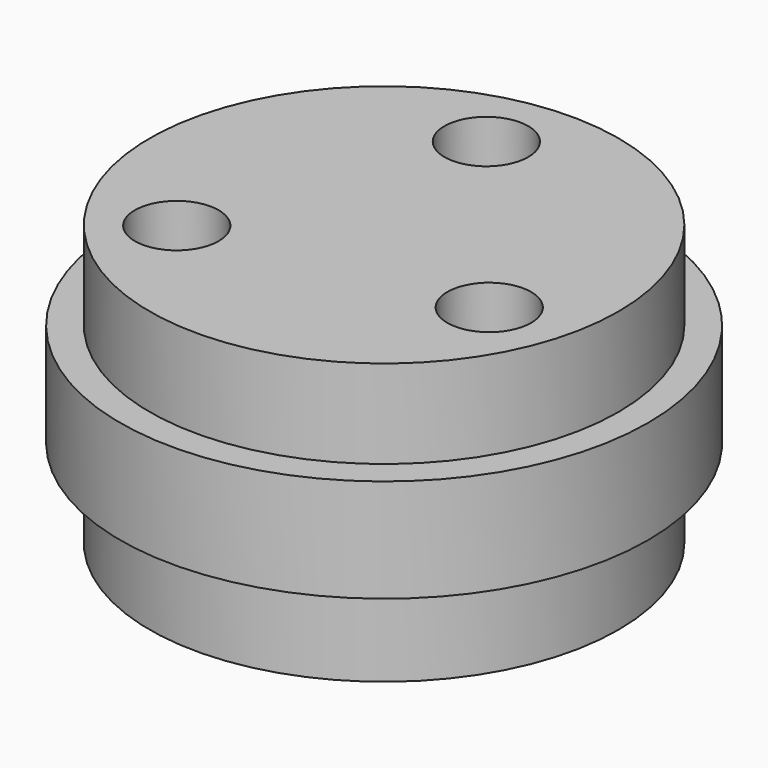
from build123d import *

# Parameters (mm, degrees)
F0_R     = 7.95
F1_DEPTH = 3
F2_R     = 8.95
F3_DEPTH = 3.5
F4_R     = 7.95
F5_DEPTH = 3
F6_R     = 1.4204913212
F7_DEPTH = 9.501
F8_R     = 6.9107531966
F8_R_2   = 3
F8_R_3   = 1.05
F9_DEPTH = 5


with BuildPart() as f1:
    # F0 (on Top) → F1 (new body)
    with BuildSketch(Plane.XY):
        Circle(F0_R)
    extrude(amount=F1_DEPTH)

    # F2 (on face) → F3 (join)
    with BuildSketch(Plane.XY.offset(3)):
        Circle(F2_R)
    extrude(amount=F3_DEPTH)

    # F4 (on face) → F5 (join)
    with BuildSketch(Plane.XY.offset(6.5)):
        Circle(F4_R)
    extrude(amount=F5_DEPTH)

    # F6 (on face) → F7 (cut, through all)
    with BuildSketch(Plane.XY.offset(9.5)):
        with Locations((-0.869839613, 5.4209182347)):
            Circle(F6_R)
        with Locations((-4.2597330966, -3.4637623194)):
            Circle(F6_R)
        with Locations((5.1295727096, -1.9571559153)):
            Circle(F6_R)
    extrude(amount=-F7_DEPTH, mode=Mode.SUBTRACT)

    # F8 (on face) → F9 (cut)
    with BuildSketch(Plane(origin=(0, 0, 0), x_dir=(1, 0, 0), z_dir=(0, 0, -1))):
        Circle(F8_R)
        Circle(F8_R_2, mode=Mode.SUBTRACT)
        Circle(F8_R_3)
    extrude(amount=-F9_DEPTH, mode=Mode.SUBTRACT)


solid = f1.part
